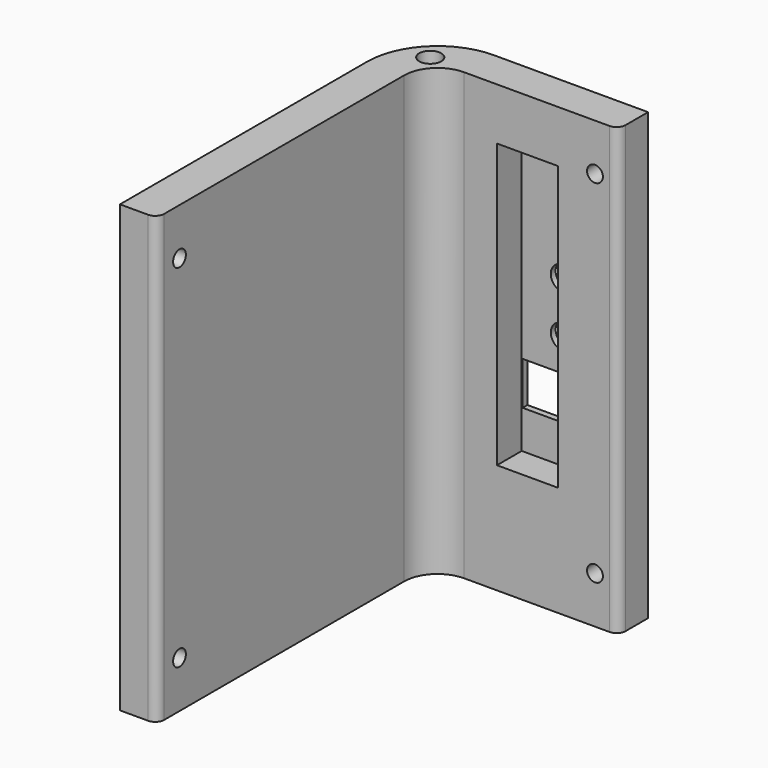
from build123d import *

# Parameters (mm, degrees)
SKETCH_R            = 2.35
PAD_DEPTH           = 95
HOLE_D              = 3.4
HOLE_CBORE_D        = 6
HOLE_CBORE_DEPTH    = 3.4
HOLE001_D           = 3.4
HOLE001_CBORE_D     = 6
HOLE001_CBORE_DEPTH = 3.4
SKETCH003_R         = 2.6
SKETCH003_W         = 11.2
SKETCH003_H         = 9.2
POCKET_DEPTH        = 80.901
SKETCH004_W         = 13
SKETCH004_H         = 60.4
POCKET001_DEPTH     = 6.6


with BuildPart() as part:
    # Sketch → Pad (new body)
    with BuildSketch(Plane.XY):
        with BuildLine():
            Line((0, 0), (0, 65.9))
            ThreePointArc((15, 80.9), (4.393398, 76.506602), (0, 65.9))
            Line((15, 80.9), (47.9, 80.9))
            Line((47.9, 80.9), (47.9, 74.8998))
            ThreePointArc((46.0002, 73), (47.343561, 73.556439), (47.9, 74.8998))
            Line((46.0002, 73), (14.9999, 73))
            ThreePointArc((14.9999, 73), (9.979513, 70.920487), (7.9, 65.9001))
            Line((7.9, 65.9001), (7.9, 1.8998))
            ThreePointArc((6.0002, 0), (7.343561, 0.556439), (7.9, 1.8998))
            Line((6.0002, 0), (0, 0))
        make_face()
        with Locations((7.2218, 73.6782)):
            Circle(SKETCH_R, mode=Mode.SUBTRACT)
    extrude(amount=PAD_DEPTH)

    # Hole (through all)
    with Locations(Plane(origin=(0, 0, 0), x_dir=(0, -1, 0), z_dir=(-1, 0, 0))):
        with Locations((-6, 10), (-6, 85)):
            CounterBoreHole(HOLE_D / 2, HOLE_CBORE_D / 2, HOLE_CBORE_DEPTH)

    # Hole001 (through all)
    with Locations(Plane(origin=(0, 80.9, 0), x_dir=(-1, 0, 0), z_dir=(0, 1, 0))):
        with Locations((-42.9, 10), (-42.9, 85)):
            CounterBoreHole(HOLE001_D / 2, HOLE001_CBORE_D / 2, HOLE001_CBORE_DEPTH)

    # Sketch003 (on Face10 of Hole001) → Pocket (cut, through all)
    with BuildSketch(Plane(origin=(0, 80.9, 0), x_dir=(-1, 0, 0), z_dir=(0, 1, 0))):
        with Locations((-30.79, 58.76)):
            Circle(SKETCH003_R)
        with Locations((-30.79, 47.76)):
            Circle(SKETCH003_R)
        with BuildLine():
            Line((-31.31, 74.38), (-32.07, 74.38))
            ThreePointArc((-32.07, 74.38), (-32.989239, 73.999239), (-33.37, 73.08))
            Line((-33.37, 73.08), (-33.37, 66.48))
            ThreePointArc((-33.37, 66.48), (-32.989239, 65.560761), (-32.07, 65.18))
            Line((-32.07, 65.18), (-31.31, 65.18))
            ThreePointArc((-31.31, 65.18), (-30.390761, 65.560761), (-30.01, 66.48))
            Line((-30.01, 66.48), (-30.01, 73.08))
            ThreePointArc((-30.01, 73.08), (-30.390761, 73.999239), (-31.31, 74.38))
        make_face()
        with Locations((-27.79, 36.26)):
            Rectangle(SKETCH003_W, SKETCH003_H)
    extrude(amount=-POCKET_DEPTH, mode=Mode.SUBTRACT)

    # Sketch004 (on Face13 of Pocket) → Pocket001 (cut)
    with BuildSketch(Plane.XZ.offset(-73)):
        with Locations((28.5, 53.7)):
            Rectangle(SKETCH004_W, SKETCH004_H)
    extrude(amount=-POCKET001_DEPTH, mode=Mode.SUBTRACT)


solid = part.part
